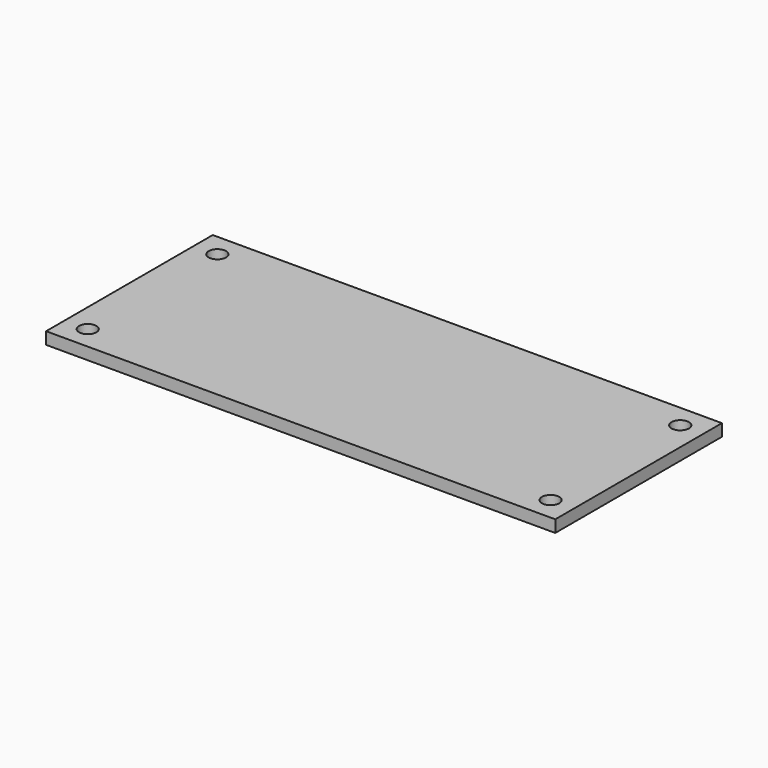
from build123d import *

# Parameters (mm, degrees)
F0_W     = 139.7
F0_H     = 57.15
F1_DEPTH = 1.651
F2_R     = 2.38125
F3_DEPTH = 3.302


with BuildPart() as f1:
    # F0 (on Top) → F1 (new body, symmetric)
    with BuildSketch(Plane.XY):
        Rectangle(F0_W, F0_H)
    extrude(amount=F1_DEPTH, both=True)

    # F2 (on face) → F3 (cut, through all)
    with BuildSketch(Plane.XY.offset(1.651)):
        with Locations((-63.5, 22.225)):
            Circle(F2_R)
        with Locations((63.5, 22.225)):
            Circle(F2_R)
        with Locations((-63.5, -22.225)):
            Circle(F2_R)
        with Locations((63.5, -22.225)):
            Circle(F2_R)
    extrude(amount=-F3_DEPTH, mode=Mode.SUBTRACT)


solid = f1.part
